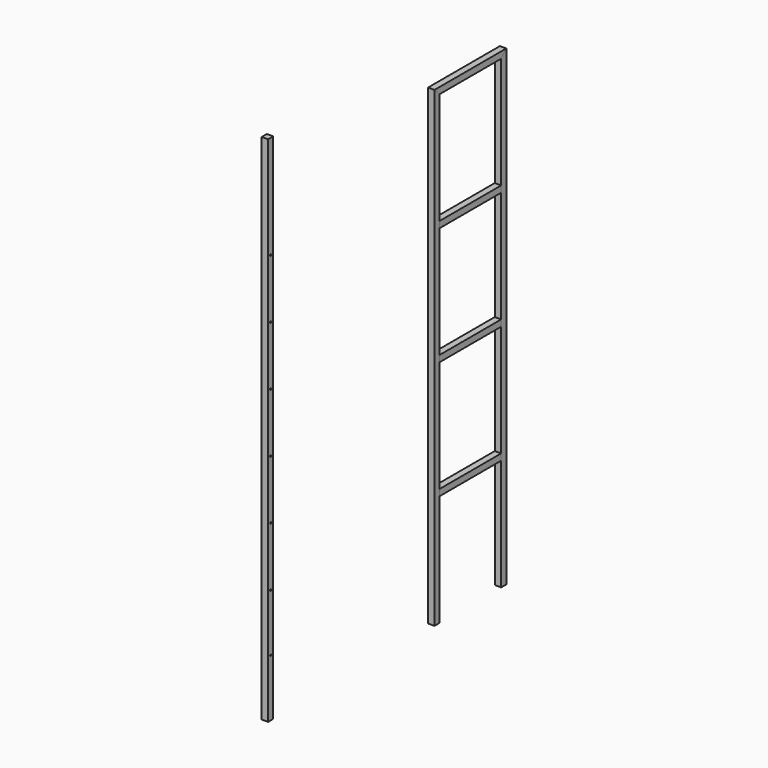
from build123d import *

# Parameters (mm, degrees)
F0_R     = 3
F1_DEPTH = 25
F0_W     = 300
F0_H     = 25
F2_DEPTH = 25


with BuildPart() as f1:
    # F0 (on Right) → F1 (new body)
    with BuildSketch(Plane.YZ):
        Polygon((-117.891654, 224.964024), (-117.891654, -1615.035976), (-92.891654, -1615.035976), (-92.891654, -1180.035976), (-92.891654, -1155.035976), (-92.891654, -720.035976), (-92.891654, -695.035976), (-92.891654, -260.035976), (-92.891654, -235.035976), (-92.891654, 199.964024), align=None)
        Polygon((232.108346, -1615.035976), (232.108346, 224.964024), (207.108346, 199.964024), (207.108346, -235.035976), (207.108346, -260.035976), (207.108346, -695.035976), (207.108346, -720.035976), (207.108346, -1155.035976), (207.108346, -1180.035976), (207.108346, -1615.035976), align=None)
        Polygon((-903.795616, -1615.035976), (-903.795616, 224.964024), (-903.795616, 384.964024), (-928.795616, 384.964024), (-928.795616, -1615.035976), align=None)
        with Locations((-916.295616, -1391.035976)):
            Circle(F0_R, mode=Mode.SUBTRACT)
        with Locations((-916.295616, -1167.535976)):
            Circle(F0_R, mode=Mode.SUBTRACT)
        with Locations((-915.563614, -937.535976)):
            Circle(F0_R, mode=Mode.SUBTRACT)
        with Locations((-916.295616, -707.535976)):
            Circle(F0_R, mode=Mode.SUBTRACT)
        with Locations((-916.447908, -477.535976)):
            Circle(F0_R, mode=Mode.SUBTRACT)
        with Locations((-916.447908, -247.535976)):
            Circle(F0_R, mode=Mode.SUBTRACT)
        with Locations((-916.447908, -17.535976)):
            Circle(F0_R, mode=Mode.SUBTRACT)
    extrude(amount=F1_DEPTH)


with BuildPart() as f2:
    # F0 (on Right) → F2 (new body)
    with BuildSketch(Plane.YZ):
        Polygon((232.108346, 224.964024), (-117.891654, 224.964024), (-92.891654, 199.964024), (207.108346, 199.964024), align=None)
        with Locations((57.108346, -247.535976)):
            Rectangle(F0_W, F0_H)
        with Locations((57.108346, -707.535976)):
            Rectangle(F0_W, F0_H)
        with Locations((57.108346, -1167.535976)):
            Rectangle(F0_W, F0_H)
    extrude(amount=F2_DEPTH)


solid = Compound([f1.part, f2.part])
